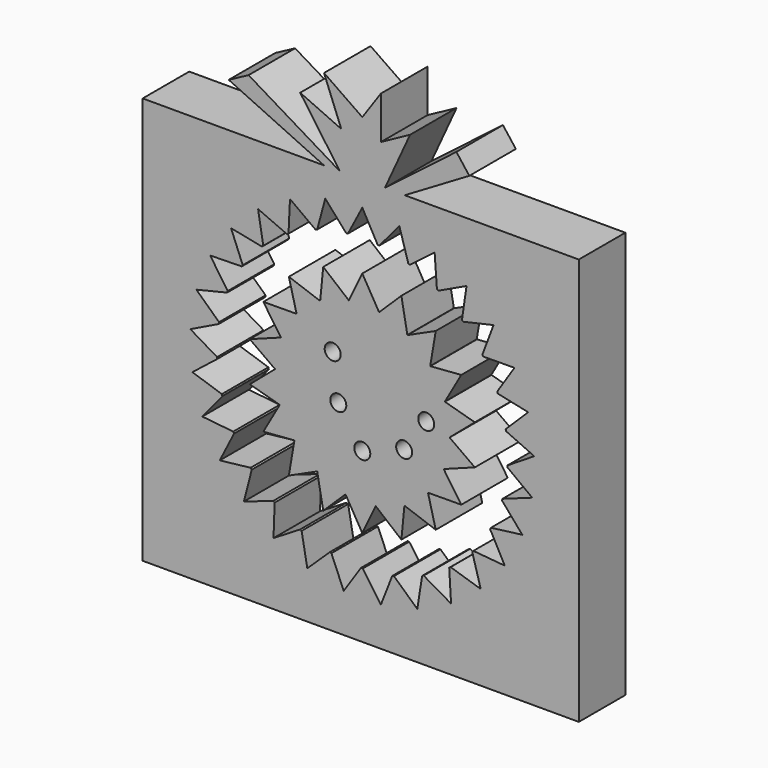
from build123d import *

# Parameters (mm, degrees)
F2_DEPTH = 25.4
F4_DEPTH = 25.401
F5_DEPTH = 25.4
F6_R     = 3.4925
F7_DEPTH = 25.401


with BuildPart() as f2:
    # F0 (on Front) → F2 (new body)
    with BuildSketch(Plane.XZ):
        Polygon((-16.717209, 86.027347), (-95.930614, 86.027347), (-95.930614, -91.772653), (94.569386, -91.772653), (94.569386, 86.027347), (18.552992, 86.027347), (46.751503, 102.667947), (41.102793, 110.019147), (9.879994, 86.027347), (20.865792, 110.019147), (8.109629, 103.08075), (8.109629, 121.742622), (0, 110.019147), (-16.717209, 121.583156), (-9.200607, 102.502555), (-27.124809, 110.59735), (-9.778811, 86.027347), (-49.674612, 110.019147), (-58.347609, 105.393551), align=None)
    extrude(amount=F2_DEPTH)

    # F3 (on face) → F4 (cut, through all)
    with BuildSketch(Plane.XZ.offset(25.4)):
        with BuildLine():
            ThreePointArc((63.416061, -3.263932), (63.479012, -1.632506), (63.5, 0))
            ThreePointArc((63.5, 0), (63.313627, 4.861549), (62.755601, 9.69456))
            ThreePointArc((62.755601, 9.69456), (62.696462, 10.069938), (62.635077, 10.444955))
            ThreePointArc((62.635077, 10.444955), (61.240181, 16.789587), (59.204366, 22.958506))
            ThreePointArc((59.204366, 22.958506), (59.065915, 23.312394), (58.925348, 23.665448))
            ThreePointArc((58.925348, 23.665448), (56.199155, 29.561885), (52.884801, 35.148938))
            ThreePointArc((52.884801, 35.148938), (52.673511, 35.464789), (52.460334, 35.779371))
            ThreePointArc((52.460334, 35.779371), (48.530318, 40.951901), (44.092401, 45.695844))
            ThreePointArc((44.092401, 45.695844), (43.818152, 45.95889), (43.542333, 46.22029))
            ThreePointArc((43.542333, 46.22029), (38.592258, 50.427053), (33.23829, 54.106063))
            ThreePointArc((33.23829, 54.106063), (32.913905, 54.304004), (32.588342, 54.5))
            ThreePointArc((32.588342, 54.5), (26.849667, 57.544291), (20.829993, 59.986343))
            ThreePointArc((20.829993, 59.986343), (20.470641, 60.109923), (20.110555, 60.23135))
            ThreePointArc((20.110555, 60.23135), (13.851615, 61.970822), (7.447708, 63.061729))
            ThreePointArc((7.447708, 63.061729), (7.070192, 63.105169), (6.692422, 63.14635))
            ThreePointArc((6.692422, 63.14635), (0.205877, 63.499666), (-6.282823, 63.188418))
            ThreePointArc((-6.282823, 63.188418), (-6.660851, 63.149688), (-7.038642, 63.108696))
            ThreePointArc((-7.038642, 63.108696), (-13.449487, 62.059337), (-19.719576, 60.360487))
            ThreePointArc((-19.719576, 60.360487), (-20.080441, 60.241397), (-20.440586, 60.12015))
            ThreePointArc((-20.440586, 60.12015), (-26.475969, 57.717182), (-32.234263, 54.710166))
            ThreePointArc((-32.234263, 54.710166), (-32.561091, 54.516285), (-32.886752, 54.320452))
            ThreePointArc((-32.886752, 54.320452), (-38.264463, 50.676235), (-43.241713, 46.501659))
            ThreePointArc((-43.241713, 46.501659), (-43.51922, 46.242053), (-43.79517, 45.980791))
            ThreePointArc((-43.79517, 45.980791), (-48.263754, 41.265725), (-52.227227, 36.118786))
            ThreePointArc((-52.227227, 36.118786), (-52.44244, 35.805594), (-52.655774, 35.491119))
            ThreePointArc((-52.655774, 35.491119), (-56.006285, 29.925675), (-58.770655, 24.047039))
            ThreePointArc((-58.770655, 24.047039), (-58.913509, 23.694904), (-59.054252, 23.341921))
            ThreePointArc((-59.054252, 23.341921), (-61.130025, 17.186333), (-62.566033, 10.850879))
            ThreePointArc((-62.566033, 10.850879), (-62.629848, 10.476268), (-62.69142, 10.101281))
            ThreePointArc((-62.69142, 10.101281), (-63.395393, 3.643378), (-63.435892, -2.852656))
            ThreePointArc((-63.435892, -2.852656), (-63.417684, -3.232228), (-63.397206, -3.611683))
            ThreePointArc((-63.397206, -3.611683), (-62.696462, -10.069938), (-61.339559, -16.422804))
            ThreePointArc((-61.339559, -16.422804), (-61.240181, -16.789587), (-61.13861, -17.155769))
            ThreePointArc((-61.13861, -17.155769), (-59.065915, -23.312394), (-56.375057, -29.22504))
            ThreePointArc((-56.375057, -29.22504), (-56.199155, -29.561885), (-56.02124, -29.897671))
            ThreePointArc((-56.02124, -29.897671), (-52.673511, -35.464789), (-48.774519, -40.660746))
            ThreePointArc((-48.774519, -40.660746), (-48.530318, -40.951901), (-48.284379, -41.24159))
            ThreePointArc((-48.284379, -41.24159), (-43.818152, -45.95889), (-38.89334, -50.1952))
            ThreePointArc((-38.89334, -50.1952), (-38.592258, -50.427053), (-38.289794, -50.657099))
            ThreePointArc((-38.289794, -50.657099), (-32.913905, -54.304004), (-27.193551, -57.382583))
            ThreePointArc((-27.193551, -57.382583), (-26.849667, -57.544291), (-26.504821, -57.703938))
            ThreePointArc((-26.504821, -57.703938), (-20.470641, -60.109923), (-14.222222, -61.886819))
            ThreePointArc((-14.222222, -61.886819), (-13.851615, -61.970822), (-13.480512, -62.052605))
            ThreePointArc((-13.480512, -62.052605), (-7.070192, -63.105169), (-0.585877, -63.497297))
            ThreePointArc((-0.585877, -63.497297), (-0.205877, -63.499666), (0.174131, -63.499761))
            ThreePointArc((0.174131, -63.499761), (6.660851, -63.149688), (13.077862, -62.138712))
            ThreePointArc((13.077862, -62.138712), (13.449487, -62.059337), (13.820631, -61.977739))
            ThreePointArc((13.820631, -61.977739), (20.080441, -60.241397), (26.130095, -57.87459))
            ThreePointArc((26.130095, -57.87459), (26.475969, -57.717182), (26.820894, -57.557707))
            ThreePointArc((26.820894, -57.557707), (32.561091, -54.516285), (37.960514, -50.904316))
            ThreePointArc((37.960514, -50.904316), (38.264463, -50.676235), (38.567042, -50.44634))
            ThreePointArc((38.567042, -50.44634), (43.51922, -46.242053), (48.015942, -41.553813))
            ThreePointArc((48.015942, -41.553813), (48.263754, -41.265725), (48.509838, -40.976159))
            ThreePointArc((48.509838, -40.976159), (52.44244, -35.805594), (55.826197, -30.2603))
            ThreePointArc((55.826197, -30.2603), (56.006285, -29.925675), (56.184368, -29.589978))
            ThreePointArc((56.184368, -29.589978), (58.913509, -23.694904), (61.026081, -17.551849))
            ThreePointArc((61.026081, -17.551849), (61.130025, -17.186333), (61.231779, -16.820202))
            ThreePointArc((61.231779, -16.820202), (62.629848, -10.476268), (63.372454, -4.022693))
            ThreePointArc((63.372454, -4.022693), (63.395393, -3.643378), (63.416061, -3.263932))
        make_face()
        with BuildLine():
            ThreePointArc((62.755601, 9.69456), (63.313627, 4.861549), (63.5, 0))
            ThreePointArc((63.5, 0), (63.479012, -1.632506), (63.416061, -3.263932))
            Line((63.416061, -3.263932), (75.108147, 4.072245))
            Line((75.108147, 4.072245), (62.755601, 9.69456))
        make_face()
        with BuildLine():
            ThreePointArc((59.204366, 22.958506), (61.240181, 16.789587), (62.635077, 10.444955))
            Line((62.635077, 10.444955), (72.476748, 20.12307))
            Line((72.476748, 20.12307), (59.204366, 22.958506))
        make_face()
        with BuildLine():
            Line((74.227573, -12.168993), (63.372454, -4.022693))
            ThreePointArc((63.372454, -4.022693), (62.629848, -10.476268), (61.231779, -16.820202))
            Line((61.231779, -16.820202), (74.227573, -12.168993))
        make_face()
        with BuildLine():
            ThreePointArc((52.884801, 35.148938), (56.199155, 29.561885), (58.925348, 23.665448))
            Line((58.925348, 23.665448), (66.456417, 35.232962))
            Line((66.456417, 35.232962), (52.884801, 35.148938))
        make_face()
        with BuildLine():
            Line((69.8762, -27.841223), (61.026081, -17.551849))
            ThreePointArc((61.026081, -17.551849), (58.913509, -23.694904), (56.184368, -29.589978))
            Line((56.184368, -29.589978), (69.8762, -27.841223))
        make_face()
        with BuildLine():
            ThreePointArc((44.092401, 45.695844), (48.530318, 40.951901), (52.460334, 35.779371))
            Line((52.460334, 35.779371), (57.328657, 48.6954))
            Line((57.328657, 48.6954), (44.092401, 45.695844))
        make_face()
        with BuildLine():
            Line((62.257493, -42.211628), (55.826197, -30.2603))
            ThreePointArc((55.826197, -30.2603), (52.44244, -35.805594), (48.509838, -40.976159))
            Line((48.509838, -40.976159), (62.257493, -42.211628))
        make_face()
        with BuildLine():
            ThreePointArc((33.23829, 54.106063), (38.592258, 50.427053), (43.542333, 46.22029))
            Line((43.542333, 46.22029), (45.520273, 59.880896))
            Line((45.520273, 59.880896), (33.23829, 54.106063))
        make_face()
        with BuildLine():
            Line((51.727695, -54.608264), (48.015942, -41.553813))
            ThreePointArc((48.015942, -41.553813), (43.51922, -46.242053), (38.567042, -50.44634))
            Line((38.567042, -50.44634), (51.727695, -54.608264))
        make_face()
        with BuildLine():
            ThreePointArc((20.829993, 59.986343), (26.849667, 57.544291), (32.588342, 54.5))
            Line((32.588342, 54.5), (31.583412, 68.266427))
            Line((31.583412, 68.266427), (20.829993, 59.986343))
        make_face()
        with BuildLine():
            Line((38.779168, -64.451478), (37.960514, -50.904316))
            ThreePointArc((37.960514, -50.904316), (32.561091, -54.516285), (26.820894, -57.557707))
            Line((26.820894, -57.557707), (38.779168, -64.451478))
        make_face()
        with BuildLine():
            ThreePointArc((7.447708, 63.061729), (13.851615, 61.970822), (20.110555, 60.23135))
            Line((20.110555, 60.23135), (16.169746, 73.459896))
            Line((16.169746, 73.459896), (7.447708, 63.061729))
        make_face()
        with BuildLine():
            Line((24.01737, -71.281014), (26.130095, -57.87459))
            ThreePointArc((26.130095, -57.87459), (20.080441, -60.241397), (13.820631, -61.977739))
            Line((13.820631, -61.977739), (24.01737, -71.281014))
        make_face()
        with BuildLine():
            ThreePointArc((-6.282823, 63.188418), (0.205877, 63.499666), (6.692422, 63.14635))
            Line((6.692422, 63.14635), (0, 75.218461))
            Line((0, 75.218461), (-6.282823, 63.188418))
        make_face()
        with BuildLine():
            Line((8.132546, -74.777528), (13.077862, -62.138712))
            ThreePointArc((13.077862, -62.138712), (6.660851, -63.149688), (0.174131, -63.499761))
            Line((0.174131, -63.499761), (8.132546, -74.777528))
        make_face()
        with BuildLine():
            ThreePointArc((-19.719576, 60.360487), (-13.449487, 62.059337), (-7.038642, 63.108696))
            Line((-7.038642, 63.108696), (-16.169746, 73.459896))
            Line((-16.169746, 73.459896), (-19.719576, 60.360487))
        make_face()
        with BuildLine():
            Line((-8.132546, -74.777528), (-0.585877, -63.497297))
            ThreePointArc((-0.585877, -63.497297), (-7.070192, -63.105169), (-13.480512, -62.052605))
            Line((-13.480512, -62.052605), (-8.132546, -74.777528))
        make_face()
        with BuildLine():
            ThreePointArc((-32.234263, 54.710166), (-26.475969, 57.717182), (-20.440586, 60.12015))
            Line((-20.440586, 60.12015), (-31.583412, 68.266427))
            Line((-31.583412, 68.266427), (-32.234263, 54.710166))
        make_face()
        with BuildLine():
            Line((-24.01737, -71.281014), (-14.222222, -61.886819))
            ThreePointArc((-14.222222, -61.886819), (-20.470641, -60.109923), (-26.504821, -57.703938))
            Line((-26.504821, -57.703938), (-24.01737, -71.281014))
        make_face()
        with BuildLine():
            ThreePointArc((-43.241713, 46.501659), (-38.264463, 50.676235), (-32.886752, 54.320452))
            Line((-32.886752, 54.320452), (-45.520273, 59.880896))
            Line((-45.520273, 59.880896), (-43.241713, 46.501659))
        make_face()
        with BuildLine():
            Line((-38.779168, -64.451478), (-27.193551, -57.382583))
            ThreePointArc((-27.193551, -57.382583), (-32.913905, -54.304004), (-38.289794, -50.657099))
            Line((-38.289794, -50.657099), (-38.779168, -64.451478))
        make_face()
        with BuildLine():
            ThreePointArc((-52.227227, 36.118786), (-48.263754, 41.265725), (-43.79517, 45.980791))
            Line((-43.79517, 45.980791), (-57.328657, 48.6954))
            Line((-57.328657, 48.6954), (-52.227227, 36.118786))
        make_face()
        with BuildLine():
            Line((-51.727695, -54.608264), (-38.89334, -50.1952))
            ThreePointArc((-38.89334, -50.1952), (-43.818152, -45.95889), (-48.284379, -41.24159))
            Line((-48.284379, -41.24159), (-51.727695, -54.608264))
        make_face()
        with BuildLine():
            ThreePointArc((-58.770655, 24.047039), (-56.006285, 29.925675), (-52.655774, 35.491119))
            Line((-52.655774, 35.491119), (-66.456417, 35.232962))
            Line((-66.456417, 35.232962), (-58.770655, 24.047039))
        make_face()
        with BuildLine():
            Line((-62.257493, -42.211628), (-48.774519, -40.660746))
            ThreePointArc((-48.774519, -40.660746), (-52.673511, -35.464789), (-56.02124, -29.897671))
            Line((-56.02124, -29.897671), (-62.257493, -42.211628))
        make_face()
        with BuildLine():
            ThreePointArc((-62.566033, 10.850879), (-61.130025, 17.186333), (-59.054252, 23.341921))
            Line((-59.054252, 23.341921), (-72.476748, 20.12307))
            Line((-72.476748, 20.12307), (-62.566033, 10.850879))
        make_face()
        with BuildLine():
            Line((-69.8762, -27.841223), (-56.375057, -29.22504))
            ThreePointArc((-56.375057, -29.22504), (-59.065915, -23.312394), (-61.13861, -17.155769))
            Line((-61.13861, -17.155769), (-69.8762, -27.841223))
        make_face()
        with BuildLine():
            ThreePointArc((-63.435892, -2.852656), (-63.395393, 3.643378), (-62.69142, 10.101281))
            Line((-62.69142, 10.101281), (-75.108147, 4.072245))
            Line((-75.108147, 4.072245), (-63.435892, -2.852656))
        make_face()
        with BuildLine():
            Line((-74.227573, -12.168993), (-61.339559, -16.422804))
            ThreePointArc((-61.339559, -16.422804), (-62.696462, -10.069938), (-63.397206, -3.611683))
            Line((-63.397206, -3.611683), (-74.227573, -12.168993))
        make_face()
    extrude(amount=-F4_DEPTH, mode=Mode.SUBTRACT)


with BuildPart() as f5:
    # F1 (on Front) → F5 (new body)
    with BuildSketch(Plane.XZ):
        with BuildLine():
            Line((0, 49.906355), (-5.85753, 37.685136))
            ThreePointArc((-5.85753, 37.685136), (0.741441, 38.130439), (7.318111, 37.428938))
            Line((7.318111, 37.428938), (0, 49.906355))
        make_face()
        with BuildLine():
            ThreePointArc((7.318111, 37.428938), (0.741441, 38.130439), (-5.85753, 37.685136))
            ThreePointArc((-5.85753, 37.685136), (-5.891105, 37.679902), (-5.924675, 37.674638))
            ThreePointArc((-5.924675, 37.674638), (-12.344652, 36.08448), (-18.393353, 33.409051))
            ThreePointArc((-18.393353, 33.409051), (-18.423113, 33.392649), (-18.452859, 33.376221))
            ThreePointArc((-18.452859, 33.376221), (-23.941797, 29.6862), (-28.710666, 25.103341))
            ThreePointArc((-28.710666, 25.103341), (-28.733022, 25.07775), (-28.755355, 25.052139))
            ThreePointArc((-28.755355, 25.052139), (-32.651209, 19.707326), (-35.56505, 13.769798))
            ThreePointArc((-35.56505, 13.769798), (-35.577305, 13.738104), (-35.589531, 13.7064))
            ThreePointArc((-35.589531, 13.7064), (-37.422402, 7.351458), (-38.129763, 0.775414))
            ThreePointArc((-38.129763, 0.775414), (-38.130439, 0.741441), (-38.131085, 0.707466))
            ThreePointArc((-38.131085, 0.707466), (-37.679902, -5.891105), (-36.095465, -12.312496))
            ThreePointArc((-36.095465, -12.312496), (-36.08448, -12.344652), (-36.073466, -12.376798))
            ThreePointArc((-36.073466, -12.376798), (-33.392649, -18.423113), (-29.70752, -23.915337))
            ThreePointArc((-29.70752, -23.915337), (-29.6862, -23.941797), (-29.664856, -23.968238))
            ThreePointArc((-29.664856, -23.968238), (-25.07775, -28.733022), (-19.73641, -32.633636))
            ThreePointArc((-19.73641, -32.633636), (-19.707326, -32.651209), (-19.678226, -32.668755))
            ThreePointArc((-19.678226, -32.668755), (-13.738104, -35.577305), (-7.384798, -37.415837))
            ThreePointArc((-7.384798, -37.415837), (-7.351458, -37.422402), (-7.318111, -37.428938))
            ThreePointArc((-7.318111, -37.428938), (-0.741441, -38.130439), (5.85753, -37.685136))
            ThreePointArc((5.85753, -37.685136), (5.891105, -37.679902), (5.924675, -37.674638))
            ThreePointArc((5.924675, -37.674638), (12.344652, -36.08448), (18.393353, -33.409051))
            ThreePointArc((18.393353, -33.409051), (18.423113, -33.392649), (18.452859, -33.376221))
            ThreePointArc((18.452859, -33.376221), (23.941797, -29.6862), (28.710666, -25.103341))
            ThreePointArc((28.710666, -25.103341), (28.733022, -25.07775), (28.755355, -25.052139))
            ThreePointArc((28.755355, -25.052139), (32.651209, -19.707326), (35.56505, -13.769798))
            ThreePointArc((35.56505, -13.769798), (35.577305, -13.738104), (35.589531, -13.7064))
            ThreePointArc((35.589531, -13.7064), (37.422402, -7.351458), (38.129763, -0.775414))
            ThreePointArc((38.129763, -0.775414), (38.130439, -0.741441), (38.131085, -0.707466))
            ThreePointArc((38.131085, -0.707466), (38.136006, -0.353748), (38.137647, 0))
            ThreePointArc((38.137647, 0), (37.623638, 6.240354), (36.095465, 12.312496))
            ThreePointArc((36.095465, 12.312496), (36.08448, 12.344652), (36.073466, 12.376798))
            ThreePointArc((36.073466, 12.376798), (33.392649, 18.423113), (29.70752, 23.915337))
            ThreePointArc((29.70752, 23.915337), (29.6862, 23.941797), (29.664856, 23.968238))
            ThreePointArc((29.664856, 23.968238), (25.07775, 28.733022), (19.73641, 32.633636))
            ThreePointArc((19.73641, 32.633636), (19.707326, 32.651209), (19.678226, 32.668755))
            ThreePointArc((19.678226, 32.668755), (13.738104, 35.577305), (7.384798, 37.415837))
            ThreePointArc((7.384798, 37.415837), (7.351458, 37.422402), (7.318111, 37.428938))
        make_face()
        with BuildLine():
            ThreePointArc((-18.393353, 33.409051), (-12.344652, 36.08448), (-5.924675, 37.674638))
            Line((-5.924675, 37.674638), (-17.068979, 46.896634))
            Line((-17.068979, 46.896634), (-18.393353, 33.409051))
        make_face()
        with BuildLine():
            Line((17.068979, 46.896634), (7.384798, 37.415837))
            ThreePointArc((7.384798, 37.415837), (13.738104, 35.577305), (19.678226, 32.668755))
            Line((19.678226, 32.668755), (17.068979, 46.896634))
        make_face()
        with BuildLine():
            ThreePointArc((-28.710666, 25.103341), (-23.941797, 29.6862), (-18.452859, 33.376221))
            Line((-18.452859, 33.376221), (-32.079187, 38.230486))
            Line((-32.079187, 38.230486), (-28.710666, 25.103341))
        make_face()
        with BuildLine():
            Line((32.079187, 38.230486), (19.73641, 32.633636))
            ThreePointArc((19.73641, 32.633636), (25.07775, 28.733022), (29.664856, 23.968238))
            Line((29.664856, 23.968238), (32.079187, 38.230486))
        make_face()
        with BuildLine():
            ThreePointArc((-35.56505, 13.769798), (-32.651209, 19.707326), (-28.755355, 25.052139))
            Line((-28.755355, 25.052139), (-43.220172, 24.953178))
            Line((-43.220172, 24.953178), (-35.56505, 13.769798))
        make_face()
        with BuildLine():
            Line((43.220172, 24.953178), (29.70752, 23.915337))
            ThreePointArc((29.70752, 23.915337), (33.392649, 18.423113), (36.073466, 12.376798))
            Line((36.073466, 12.376798), (43.220172, 24.953178))
        make_face()
        with BuildLine():
            ThreePointArc((-38.129763, 0.775414), (-37.422402, 7.351458), (-35.589531, 13.7064))
            Line((-35.589531, 13.7064), (-49.148166, 8.666148))
            Line((-49.148166, 8.666148), (-38.129763, 0.775414))
        make_face()
        with BuildLine():
            Line((49.148166, 8.666148), (36.095465, 12.312496))
            ThreePointArc((36.095465, 12.312496), (37.623638, 6.240354), (38.137647, 0))
            ThreePointArc((38.137647, 0), (38.136006, -0.353748), (38.131085, -0.707466))
            Line((38.131085, -0.707466), (49.148166, 8.666148))
        make_face()
        with BuildLine():
            ThreePointArc((-36.095465, -12.312496), (-37.679902, -5.891105), (-38.131085, 0.707466))
            Line((-38.131085, 0.707466), (-49.148166, -8.666148))
            Line((-49.148166, -8.666148), (-36.095465, -12.312496))
        make_face()
        with BuildLine():
            Line((49.148166, -8.666148), (38.129763, -0.775414))
            ThreePointArc((38.129763, -0.775414), (37.422402, -7.351458), (35.589531, -13.7064))
            Line((35.589531, -13.7064), (49.148166, -8.666148))
        make_face()
        with BuildLine():
            ThreePointArc((-29.70752, -23.915337), (-33.392649, -18.423113), (-36.073466, -12.376798))
            Line((-36.073466, -12.376798), (-43.220172, -24.953178))
            Line((-43.220172, -24.953178), (-29.70752, -23.915337))
        make_face()
        with BuildLine():
            Line((43.220172, -24.953178), (35.56505, -13.769798))
            ThreePointArc((35.56505, -13.769798), (32.651209, -19.707326), (28.755355, -25.052139))
            Line((28.755355, -25.052139), (43.220172, -24.953178))
        make_face()
        with BuildLine():
            ThreePointArc((-19.73641, -32.633636), (-25.07775, -28.733022), (-29.664856, -23.968238))
            Line((-29.664856, -23.968238), (-32.079187, -38.230486))
            Line((-32.079187, -38.230486), (-19.73641, -32.633636))
        make_face()
        with BuildLine():
            Line((32.079187, -38.230486), (28.710666, -25.103341))
            ThreePointArc((28.710666, -25.103341), (23.941797, -29.6862), (18.452859, -33.376221))
            Line((18.452859, -33.376221), (32.079187, -38.230486))
        make_face()
        with BuildLine():
            ThreePointArc((-7.384798, -37.415837), (-13.738104, -35.577305), (-19.678226, -32.668755))
            Line((-19.678226, -32.668755), (-17.068979, -46.896634))
            Line((-17.068979, -46.896634), (-7.384798, -37.415837))
        make_face()
        with BuildLine():
            Line((17.068979, -46.896634), (18.393353, -33.409051))
            ThreePointArc((18.393353, -33.409051), (12.344652, -36.08448), (5.924675, -37.674638))
            Line((5.924675, -37.674638), (17.068979, -46.896634))
        make_face()
        with BuildLine():
            ThreePointArc((5.85753, -37.685136), (-0.741441, -38.130439), (-7.318111, -37.428938))
            Line((-7.318111, -37.428938), (0, -49.906355))
            Line((0, -49.906355), (5.85753, -37.685136))
        make_face()
    extrude(amount=F5_DEPTH)

    # F6 (on face) → F7 (cut, through all)
    with BuildSketch(Plane.XZ.offset(25.4)):
        with Locations((-12.93149, 15.597528)):
            Circle(F6_R)
        with Locations((-10.481316, -3.18715)):
            Circle(F6_R)
        with Locations((0, -18.296564)):
            Circle(F6_R)
        with Locations((18.285388, -11.856756)):
            Circle(F6_R)
        with Locations((27.929191, 2.04405)):
            Circle(F6_R)
    extrude(amount=-F7_DEPTH, mode=Mode.SUBTRACT)


solid = Compound([f2.part, f5.part])
